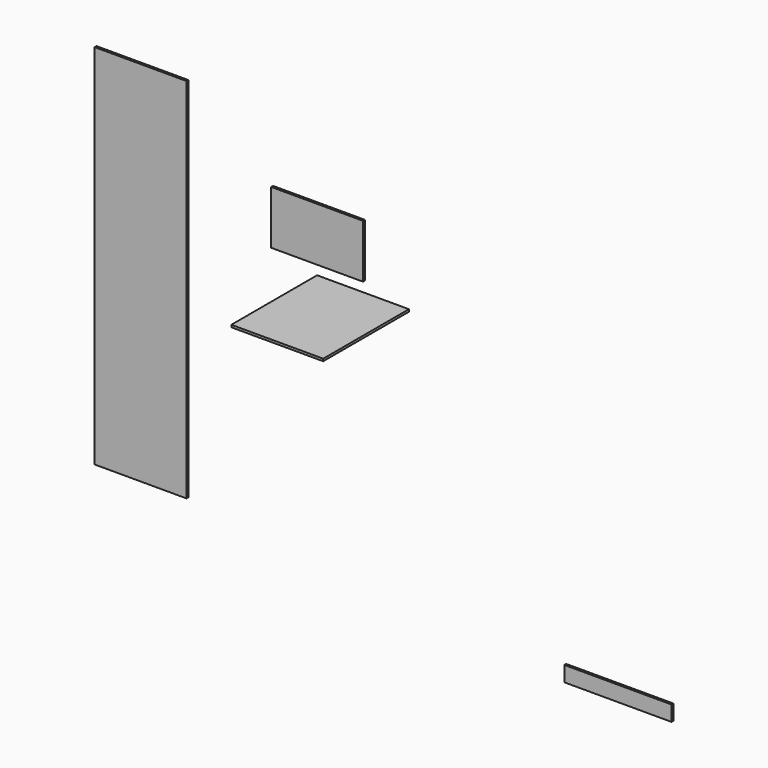
from build123d import *

# Parameters (mm, degrees)
F0_W     = 600
F0_H     = 2400
F1_DEPTH = 15
F2_W     = 600
F2_H     = 700
F3_DEPTH = 15
F4_W     = 700
F4_H     = 100
F5_DEPTH = 15
F6_W     = 600
F6_H     = 350
F7_DEPTH = 15


with BuildPart() as f1:
    # F0 (on Front) → F1 (new body)
    with BuildSketch(Plane.XZ):
        with Locations((-1065.331316, -121.252507)):
            Rectangle(F0_W, F0_H)
    extrude(amount=F1_DEPTH)


with BuildPart() as f3:
    # F2 (on Top) → F3 (new body)
    with BuildSketch(Plane.XY):
        with Locations((118.104118, -28.335744)):
            Rectangle(F2_W, F2_H)
    extrude(amount=F3_DEPTH)


with BuildPart() as f5:
    # F4 (on Front) → F5 (new body)
    with BuildSketch(Plane.XZ):
        with Locations((2052.516913, -1526.170564)):
            Rectangle(F4_W, F4_H)
    extrude(amount=F5_DEPTH)


with BuildPart() as f7:
    # F6 (on Front) → F7 (new body)
    with BuildSketch(Plane.XZ):
        with Locations((87.561053, 474.893826)):
            Rectangle(F6_W, F6_H)
    extrude(amount=F7_DEPTH)


solid = Compound([f1.part, f3.part, f5.part, f7.part])
